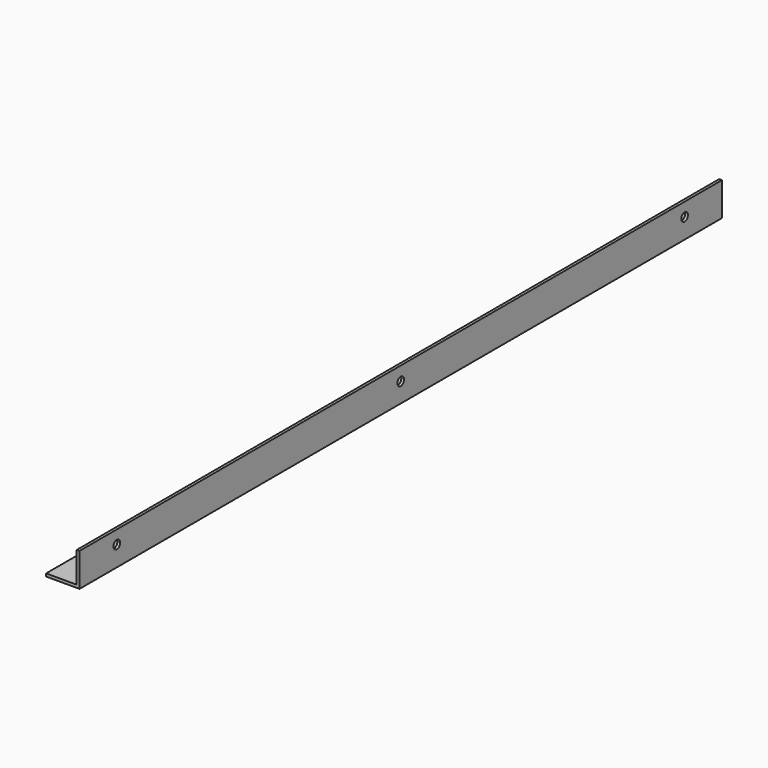
from build123d import *

# Parameters (mm, degrees)
F1_DEPTH = 914.4
F2_R     = 4.7625
F3_DEPTH = 38.101


with BuildPart() as f1:
    # F0 (on Front) → F1 (new body)
    with BuildSketch(Plane.XZ):
        Polygon((0, 3.175), (0, 0), (38.1, 0), (38.1, 38.1), (34.925, 38.1), (34.925, 3.175), align=None)
    extrude(amount=F1_DEPTH)

    # F2 (on face) → F3 (cut, through all)
    with BuildSketch(Plane.YZ.offset(38.1)):
        with Locations((-861.314, 22.86)):
            Circle(F2_R)
        with Locations((-457.2, 22.225)):
            Circle(F2_R)
        with Locations((-53.086, 22.86)):
            Circle(F2_R)
    extrude(amount=-F3_DEPTH, mode=Mode.SUBTRACT)


solid = f1.part
